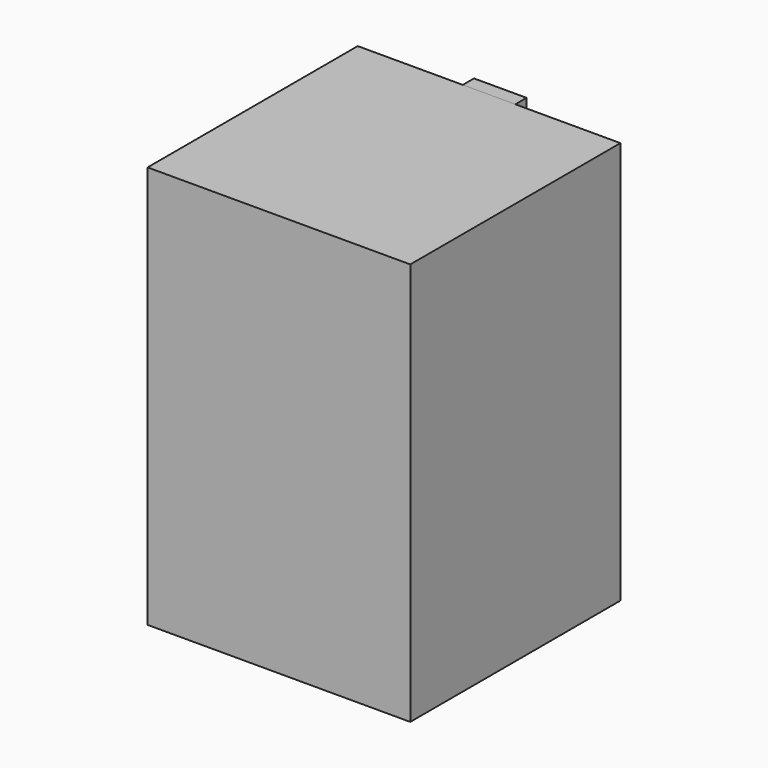
from build123d import *

# Parameters (mm, degrees)
SKETCH_W        = 70.8
SKETCH_H        = 70.8
PAD_DEPTH       = 2
POCKET_DEPTH    = 2
SKETCH002_W     = 8
SKETCH002_H     = 8
PAD001_DEPTH    = 101
SKETCH003_W     = 5.588
SKETCH003_H     = 5.588
PAD002_DEPTH    = 3
SKETCH004_R     = 0.992188
POCKET001_DEPTH = 20.901
FILLET_R        = 6
SKETCH005_R     = 1.5
POCKET002_DEPTH = 2
SKETCH006_W     = 75
SKETCH006_H     = 75
SKETCH006_W_2   = 71
SKETCH006_H_2   = 71
PAD003_DEPTH    = 111
SKETCH008_W     = 71
SKETCH008_H     = 71
SKETCH008_W_2   = 67
SKETCH008_H_2   = 67
PAD005_DEPTH    = 2
CHAMFER_SIZE    = 1.999
SKETCH009_W     = 75
SKETCH009_H     = 75
SKETCH009_R     = 0.992188
PAD006_DEPTH    = 10
CHAMFER001_SIZE = 6.015625
SKETCH010_W     = 75
SKETCH010_H     = 75
SKETCH010_W_2   = 71
SKETCH010_H_2   = 71
PAD007_DEPTH    = 2
SKETCH007_W     = 75
SKETCH007_H     = 75
PAD004_DEPTH    = 2
PAD008_DEPTH    = 7.5


with BuildPart() as body:
    # Sketch → Pad (new body)
    with BuildSketch(Plane.XY):
        with Locations((0, -14.5)):
            Rectangle(SKETCH_W, SKETCH_H)
    extrude(amount=-PAD_DEPTH)

    # Sketch001 → Pocket (cut)
    with BuildSketch(Plane.XY):
        with BuildLine():
            ThreePointArc((0, -14), (6, -8), (0, -2))
            Line((0, -2), (-7.5, -2))
            ThreePointArc((-7.5, -2), (-13.5, -8), (-7.5, -14))
            Line((-7.5, -14), (0, -14))
        make_face()
    extrude(amount=-POCKET_DEPTH, mode=Mode.SUBTRACT)

    # Sketch002 → Pad001 (join)
    with BuildSketch(Plane.XY):
        with Locations((22.706, 7)):
            Rectangle(SKETCH002_W, SKETCH002_H)
        with Locations((-22.706, 7)):
            Rectangle(SKETCH002_W, SKETCH002_H)
    extrude(amount=PAD001_DEPTH)

    # Sketch003 (on Face15 of Pad001) → Pad002 (join)
    with BuildSketch(Plane.XZ.offset(-3)):
        with Locations((22.706, 98.206)):
            Rectangle(SKETCH003_W, SKETCH003_H)
        with Locations((-22.706, 98.206)):
            Rectangle(SKETCH003_W, SKETCH003_H)
        with Locations((-22.706, 42.794)):
            Rectangle(SKETCH003_W, SKETCH003_H)
        with Locations((22.706, 42.794)):
            Rectangle(SKETCH003_W, SKETCH003_H)
    extrude(amount=PAD002_DEPTH)

    # Sketch004 (on Face40 of Pad002) → Pocket001 (cut, through all)
    with BuildSketch(Plane.XZ):
        with Locations((22.706, 98.206)):
            Circle(SKETCH004_R)
        with Locations((-22.706, 98.206)):
            Circle(SKETCH004_R)
        with Locations((-22.706, 42.794)):
            Circle(SKETCH004_R)
        with Locations((22.706, 42.794)):
            Circle(SKETCH004_R)
    extrude(amount=-POCKET001_DEPTH, mode=Mode.SUBTRACT)

    # Fillet
    fillet_edges = [body.edges().sort_by_distance(p)[0] for p in [
        (22.706, 3, 0),
        (26.706, 7, 0),
        (22.706, 11, 0),
        (18.706, 7, 0),
        (-22.706, 11, 0),
        (-26.706, 7, 0),
        (-18.706, 7, 0),
        (-22.706, 3, 0),
    ]]
    fillet(fillet_edges, radius=FILLET_R)

    # Sketch005 → Pocket002 (cut)
    with BuildSketch(Plane.XY):
        with Locations((27.5, -42)):
            Circle(SKETCH005_R)
        with Locations((-27.5, -42)):
            Circle(SKETCH005_R)
        with Locations((0, 13)):
            Circle(SKETCH005_R)
    extrude(amount=-POCKET002_DEPTH, mode=Mode.SUBTRACT)


with BuildPart() as body001:
    # Sketch006 → Pad003 (new body)
    with BuildSketch(Plane.XY):
        with Locations((0, -14.5)):
            Rectangle(SKETCH006_W, SKETCH006_H)
        with Locations((0, -14.5)):
            Rectangle(SKETCH006_W_2, SKETCH006_H_2, mode=Mode.SUBTRACT)
    extrude(amount=PAD003_DEPTH)

    # Sketch008 → Pad005 (join)
    with BuildSketch(Plane.XY):
        with Locations((0, -14.5)):
            Rectangle(SKETCH008_W, SKETCH008_H)
        with Locations((0, -14.5)):
            Rectangle(SKETCH008_W_2, SKETCH008_H_2, mode=Mode.SUBTRACT)
    extrude(amount=PAD005_DEPTH)

    # Chamfer
    chamfer_edges = [body001.edges().sort_by_distance(p)[0] for p in [
        (0, -50, 2),
        (35.5, -14.5, 2),
        (-35.5, -14.5, 2),
        (0, 21, 2),
    ]]
    chamfer(chamfer_edges, length=CHAMFER_SIZE)

    # Sketch009 → Pad006 (join)
    with BuildSketch(Plane.XY):
        with Locations((0, -14.5)):
            Rectangle(SKETCH009_W, SKETCH009_H)
        with Locations((0, 13)):
            Circle(SKETCH009_R, mode=Mode.SUBTRACT)
        with Locations((27.5, -42)):
            Circle(SKETCH009_R, mode=Mode.SUBTRACT)
        with Locations((-27.5, -42)):
            Circle(SKETCH009_R, mode=Mode.SUBTRACT)
        with BuildLine():
            ThreePointArc((27.5, -39.206), (25.524344, -40.024344), (24.706, -42))
            Line((24.706, -50), (24.706, -42))
            Line((-24.706, -50), (24.706, -50))
            Line((-24.706, -42), (-24.706, -50))
            ThreePointArc((-24.706, -42), (-25.524344, -40.024344), (-27.5, -39.206))
            Line((-35.5, -39.206), (-27.5, -39.206))
            Line((-35.5, 21), (-35.5, -39.206))
            Line((-2.794, 21), (-35.5, 21))
            Line((-2.794, 13), (-2.794, 21))
            ThreePointArc((-2.794, 13), (0, 10.206), (2.794, 13))
            Line((2.794, 21), (2.794, 13))
            Line((35.5, 21), (2.794, 21))
            Line((35.5, -39.206), (35.5, 21))
            Line((27.5, -39.206), (35.5, -39.206))
        make_face(mode=Mode.SUBTRACT)
    extrude(amount=PAD006_DEPTH)

    # Chamfer001
    chamfer001_edges = [body001.edges().sort_by_distance(p)[0] for p in [
        (-35.5, -44.603, 10),
        (-30.103, -50, 10),
        (35.5, -44.603, 10),
        (30.103, -50, 10),
        (0, 21, 10),
    ]]
    chamfer(chamfer001_edges, length=CHAMFER001_SIZE)

    # Sketch010 → Pad007 (join)
    with BuildSketch(Plane.XY):
        with Locations((0, -14.5)):
            Rectangle(SKETCH010_W, SKETCH010_H)
        with Locations((0, -14.5)):
            Rectangle(SKETCH010_W_2, SKETCH010_H_2, mode=Mode.SUBTRACT)
    extrude(amount=-PAD007_DEPTH)

    # Sketch007 (on Face10 of Pad003) → Pad004 (join)
    with BuildSketch(Plane.XY.offset(111)):
        with Locations((0, -14.5)):
            Rectangle(SKETCH007_W, SKETCH007_H)
    extrude(amount=PAD004_DEPTH)


with BuildPart() as body002:
    # Sketch011 → Pad008 (new body, symmetric)
    with BuildSketch(Plane.YZ):
        Polygon((23, 113), (27, 113), (27, 89), (25, 89), (25, 109), (23, 109), align=None)
    extrude(amount=PAD008_DEPTH, both=True)


solid = Compound([body.part, body001.part, body002.part])
